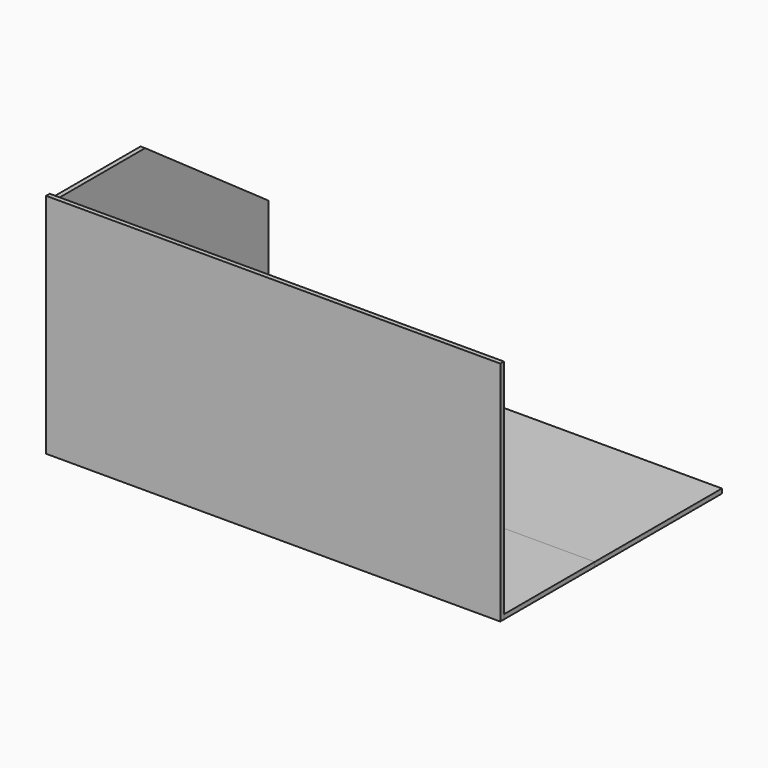
from build123d import *

# Parameters (mm, degrees)
F0_W     = 1000
F0_H     = 600
F1_DEPTH = 10
F2_W     = 1000
F2_H     = 500
F3_DEPTH = 10
F5_DEPTH = 10
F6_W     = 1000
F6_H     = 250
F7_DEPTH = 10


with BuildPart() as f1:
    # F0 (on Top) → F1 (new body)
    with BuildSketch(Plane.XY):
        with Locations((500, 300)):
            Rectangle(F0_W, F0_H)
    extrude(amount=F1_DEPTH)


with BuildPart() as f3:
    # F2 (on Front) → F3 (new body)
    with BuildSketch(Plane.XZ):
        with Locations((500, 250)):
            Rectangle(F2_W, F2_H)
    extrude(amount=F3_DEPTH)


with BuildPart() as f5:
    # F4 (on Right) → F5 (new body)
    with BuildSketch(Plane.YZ):
        Polygon((0, 490), (0, 0), (590, 0), (590, 250), (250, 490), align=None)
    extrude(amount=F5_DEPTH)


with BuildPart() as f7:
    # F6 (on Top) → F7 (new body)
    with BuildSketch(Plane.XY):
        with Locations((500, 125)):
            Rectangle(F6_W, F6_H)
    extrude(amount=F7_DEPTH)


solid = Compound([f1.part, f3.part, f5.part, f7.part])
